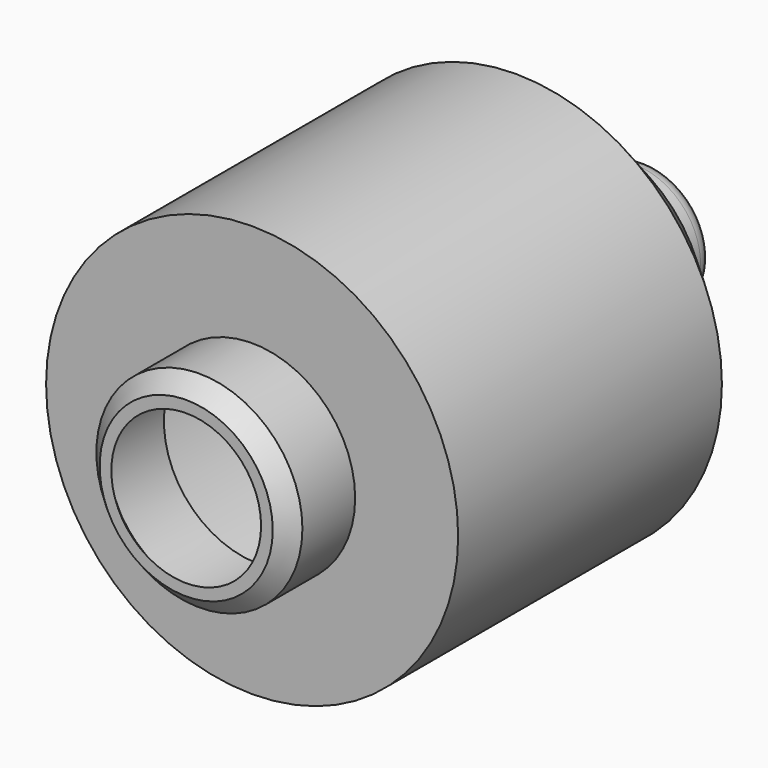
from build123d import *

# Parameters (mm, degrees)
F0_R     = 63.5
F1_DEPTH = 127
F2_R     = 31.75
F3_DEPTH = 25.4
F4_R     = 20.32
F5_DEPTH = 25.4
F6_R     = 5.08
F7_SIZE  = 25.4
F8_SIZE  = 5.08
F9_T     = -2.54


with BuildPart() as f1:
    # F0 (on Front) → F1 (new body)
    with BuildSketch(Plane.XZ):
        with Locations((0, 42.1909095929)):
            Circle(F0_R)
    extrude(amount=F1_DEPTH)

    # F2 (on face) → F3 (join)
    with BuildSketch(Plane.XZ.offset(127)):
        with Locations((0, 42.1909095929)):
            Circle(F2_R)
    extrude(amount=F3_DEPTH)

    # F4 (on face) → F5 (join)
    with BuildSketch(Plane(origin=(0, 0, 0), x_dir=(-1, 0, 0), z_dir=(0, 1, 0))):
        with Locations((0, 42.1909095929)):
            Circle(F4_R)
    extrude(amount=F5_DEPTH)

    # F6
    f6_edges = [f1.edges().sort_by_distance(p)[0] for p in [
        (20.32, 25.4, 42.19091),
    ]]
    fillet(f6_edges, radius=F6_R)

    # F7
    f7_edges = [f1.edges().sort_by_distance(p)[0] for p in [
        (-63.5, 0, 42.19091),
    ]]
    chamfer(f7_edges, length=F7_SIZE)

    # F8
    f8_edges = [f1.edges().sort_by_distance(p)[0] for p in [
        (-31.75, -152.4, 42.19091),
    ]]
    chamfer(f8_edges, length=F8_SIZE)

    # F9
    f9_openings = [f1.faces().sort_by_distance(p)[0] for p in [
        (0, -152.4, 42.19091),
    ]]
    offset(amount=F9_T, openings=f9_openings, kind=Kind.INTERSECTION)


solid = f1.part
